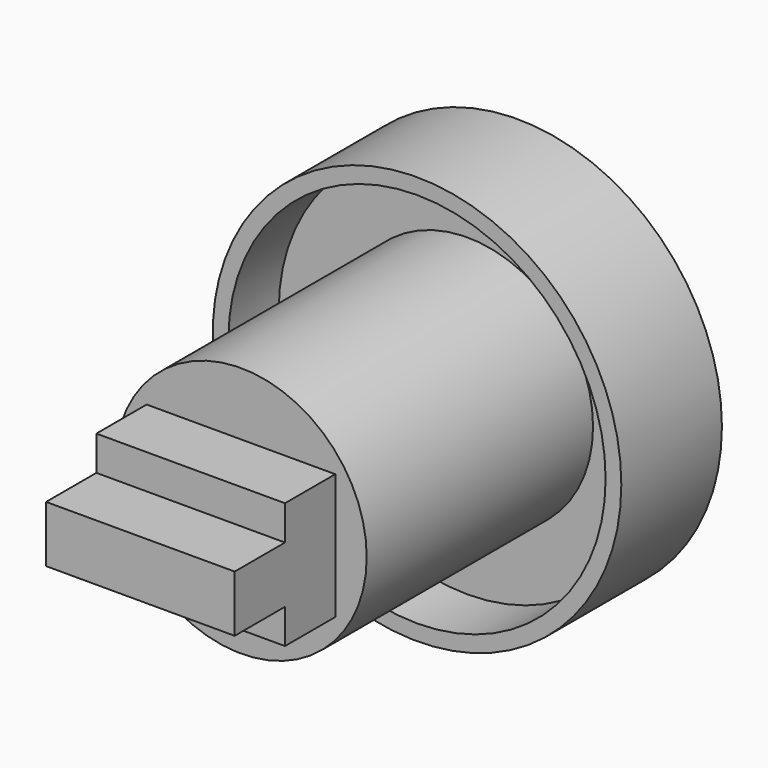
from build123d import *

# Parameters (mm, degrees)
F0_R     = 41.275
F1_DEPTH = 25.4
F2_R     = 38.1
F3_DEPTH = 12.7
F4_R     = 25.4
F5_DEPTH = 57.15
F6_W     = 38.1
F6_H     = 25.4
F7_DEPTH = 25.4
F8_W     = 38.1
F8_H     = 6.987833
F8_H_2   = 6.985
F9_DEPTH = 12.7


with BuildPart() as f1:
    # F0 (on Front) → F1 (new body)
    with BuildSketch(Plane.XZ):
        Circle(F0_R)
    extrude(amount=F1_DEPTH)

    # F2 (on face) → F3 (cut)
    with BuildSketch(Plane.XZ.offset(25.4)):
        Circle(F2_R)
    extrude(amount=-F3_DEPTH, mode=Mode.SUBTRACT)

    # F4 (on face) → F5 (join)
    with BuildSketch(Plane.XZ.offset(12.7)):
        Circle(F4_R)
    extrude(amount=F5_DEPTH)

    # F6 (on face) → F7 (join)
    with BuildSketch(Plane.XZ.offset(69.85)):
        Rectangle(F6_W, F6_H)
    extrude(amount=F7_DEPTH)

    # F8 (on face) → F9 (cut)
    with BuildSketch(Plane.XZ.offset(95.25)):
        with Locations((0, 9.206084)):
            Rectangle(F8_W, F8_H)
        with Locations((0, -9.2075)):
            Rectangle(F8_W, F8_H_2)
    extrude(amount=-F9_DEPTH, mode=Mode.SUBTRACT)


solid = f1.part
